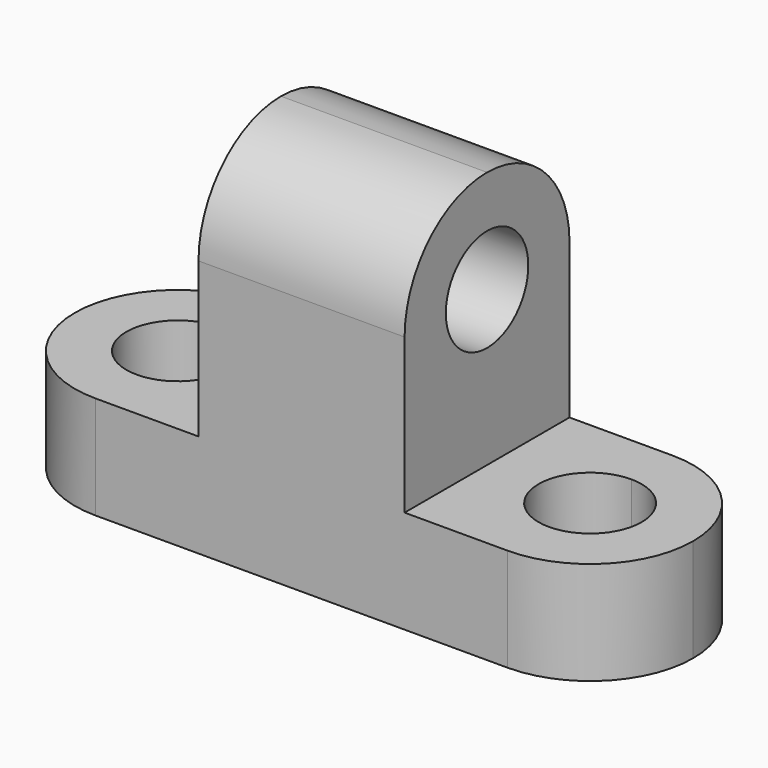
from build123d import *

# Parameters (mm, degrees)
F1_DEPTH = 25.4
F3_DEPTH = 12.701
F5_DEPTH = 12.701
F7_DEPTH = 50.801


with BuildPart() as f1:
    # F0 (on Front) → F1 (new body)
    with BuildSketch(Plane.XZ):
        Polygon((-31.273121752, 12.7), (-31.273121752, 0), (44.926878248, 0), (44.926878248, 12.7), (19.526878248, 12.7), (19.526878248, 44.45), (-5.873121752, 44.45), (-5.873121752, 12.7), align=None)
    extrude(amount=F1_DEPTH)

    # F2 (on face) → F3 (cut, through all)
    with BuildSketch(Plane.XY.offset(12.7)):
        with BuildLine():
            ThreePointArc((38.576878248, -12.7), (36.7170063085, -8.2098719395), (32.226878248, -6.35))
            Line((32.226878248, -6.35), (32.226878248, -19.05))
            ThreePointArc((32.226878248, -19.05), (36.7170063085, -17.1901280605), (38.576878248, -12.7))
        make_face()
        with BuildLine():
            Line((32.226878248, -19.05), (32.226878248, -6.35))
            ThreePointArc((32.226878248, -6.35), (25.876878248, -12.7), (32.226878248, -19.05))
        make_face()
        with BuildLine():
            Line((44.926878248, 0), (32.226878248, 0))
            ThreePointArc((32.226878248, 0), (41.2071343691, -3.7197438789), (44.926878248, -12.7))
            Line((44.926878248, -12.7), (44.926878248, 0))
        make_face()
        with BuildLine():
            Line((44.926878248, -25.4), (44.926878248, -12.7))
            ThreePointArc((44.926878248, -12.7), (41.2071343691, -21.6802561211), (32.226878248, -25.4))
            Line((32.226878248, -25.4), (44.926878248, -25.4))
        make_face()
    extrude(amount=-F3_DEPTH, mode=Mode.SUBTRACT)

    # F4 (on face) → F5 (cut, through all)
    with BuildSketch(Plane.XY.offset(12.7)):
        with BuildLine():
            ThreePointArc((-12.223121752, -12.7), (-14.0829936915, -8.2098719395), (-18.573121752, -6.35))
            Line((-18.573121752, -6.35), (-18.573121752, -19.05))
            ThreePointArc((-18.573121752, -19.05), (-14.0829936915, -17.1901280605), (-12.223121752, -12.7))
        make_face()
        with BuildLine():
            Line((-18.573121752, -19.05), (-18.573121752, -6.35))
            ThreePointArc((-18.573121752, -6.35), (-24.923121752, -12.7), (-18.573121752, -19.05))
        make_face()
        with BuildLine():
            ThreePointArc((-31.273121752, -12.7), (-27.5533778731, -3.7197438789), (-18.573121752, 0))
            Line((-18.573121752, 0), (-31.273121752, 0))
            Line((-31.273121752, 0), (-31.273121752, -12.7))
        make_face()
        with BuildLine():
            ThreePointArc((-18.573121752, -25.4), (-27.5533778731, -21.6802561211), (-31.273121752, -12.7))
            Line((-31.273121752, -12.7), (-31.273121752, -25.4))
            Line((-31.273121752, -25.4), (-18.573121752, -25.4))
        make_face()
    extrude(amount=-F5_DEPTH, mode=Mode.SUBTRACT)

    # F6 (on face) → F7 (cut, through all)
    with BuildSketch(Plane.YZ.offset(19.526878248)):
        with BuildLine():
            ThreePointArc((-25.4, 31.75), (-21.6802561211, 40.7302561211), (-12.7, 44.45))
            Line((-12.7, 44.45), (-25.4, 44.45))
            Line((-25.4, 44.45), (-25.4, 31.75))
        make_face()
        with BuildLine():
            ThreePointArc((-12.7, 44.45), (-3.7197438789, 40.7302561211), (0, 31.75))
            Line((0, 31.75), (0, 44.45))
            Line((0, 44.45), (-12.7, 44.45))
        make_face()
        with BuildLine():
            Line((-19.05, 31.75), (-6.35, 31.75))
            ThreePointArc((-6.35, 31.75), (-12.7, 38.1), (-19.05, 31.75))
        make_face()
        with BuildLine():
            ThreePointArc((-19.05, 31.75), (-12.7, 25.4), (-6.35, 31.75))
            Line((-6.35, 31.75), (-19.05, 31.75))
        make_face()
    extrude(amount=-F7_DEPTH, mode=Mode.SUBTRACT)


solid = f1.part
